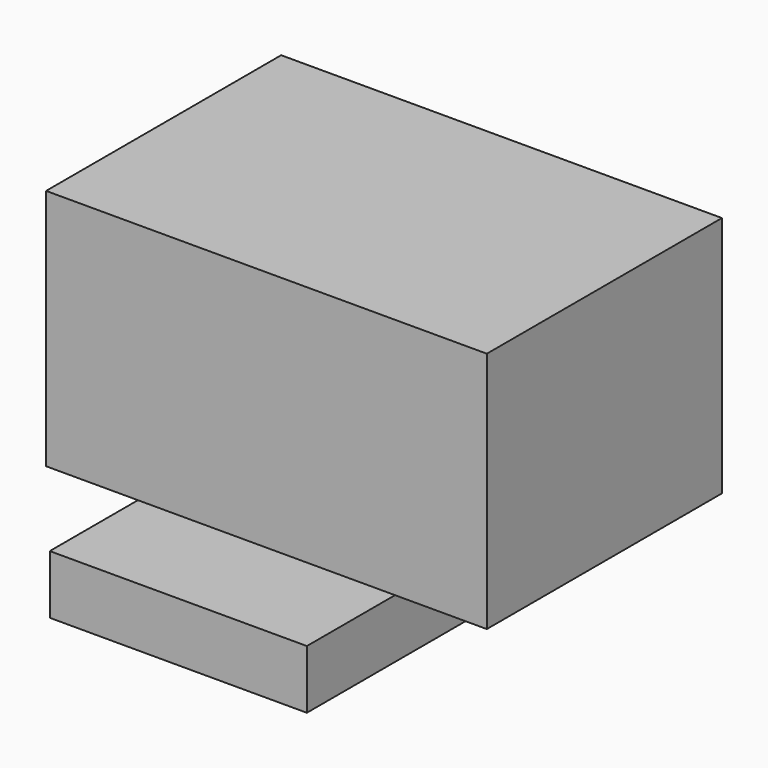
from build123d import *

# Parameters (mm, degrees)
F0_W     = 35
F0_H     = 8
F1_DEPTH = 35
F2_DEPTH = 20


with BuildPart() as f1:
    # F0 (on Front) → F1 (new body, symmetric)
    with BuildSketch(Plane.XZ):
        with Locations((0, 4)):
            Rectangle(F0_W, F0_H)
        with Locations((0, 4)):
            Rectangle(F0_W, F0_H)
    extrude(amount=F1_DEPTH, both=True)

    # F0 (on Front) → F2 (join, symmetric)
    with BuildSketch(Plane.XZ):
        Polygon((-30, 8), (-17.5, 8), (17.5, 8), (30, 8), (30, 41), (-30, 41), align=None)
        with Locations((0, 4)):
            Rectangle(F0_W, F0_H)
    extrude(amount=F2_DEPTH, both=True)


solid = f1.part
